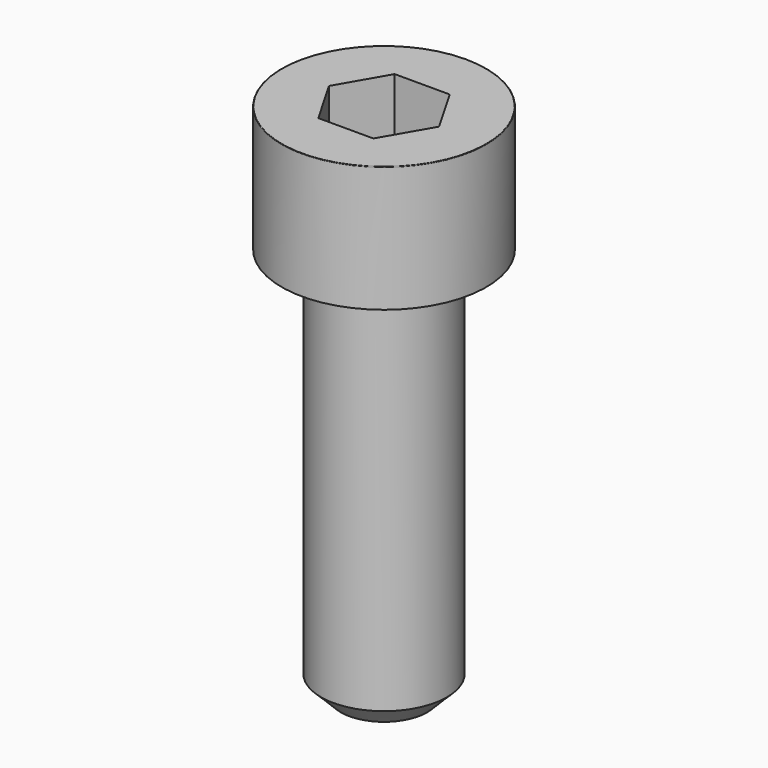
from build123d import *

# Parameters (mm, degrees)
POCKET_DEPTH = 6.06


with BuildPart() as part:
    # Sketch → Revolve (revolve)
    with BuildSketch(Plane.YZ):
        with BuildLine():
            Line((3.999, 0), (6.5, 0))
            Line((6.5, 0), (6.5, 7.97229))
            ThreePointArc((6.5, 7.97229), (6.491884, 7.991884), (6.47229, 8))
            Line((6.47229, 8), (0, 8))
            Line((0, -25), (0, 8))
            Line((2.75, -25), (0, -25))
            Line((4, -23.75), (2.75, -25))
            Line((4, -0.2), (4, -23.75))
            Line((3.999, 0), (4, -0.2))
        make_face()
    revolve(axis=Axis((0, 0, 0), (0, 0, 1)))

    # Sketch001 → Pocket (cut)
    with BuildSketch(Plane.XY.offset(8)):
        Polygon((3.498743, 0), (1.749371, 3.03), (-1.749371, 3.03), (-3.498743, 0), (-1.749371, -3.03), (1.749371, -3.03), align=None)
    extrude(amount=-POCKET_DEPTH, mode=Mode.SUBTRACT)


solid = part.part
